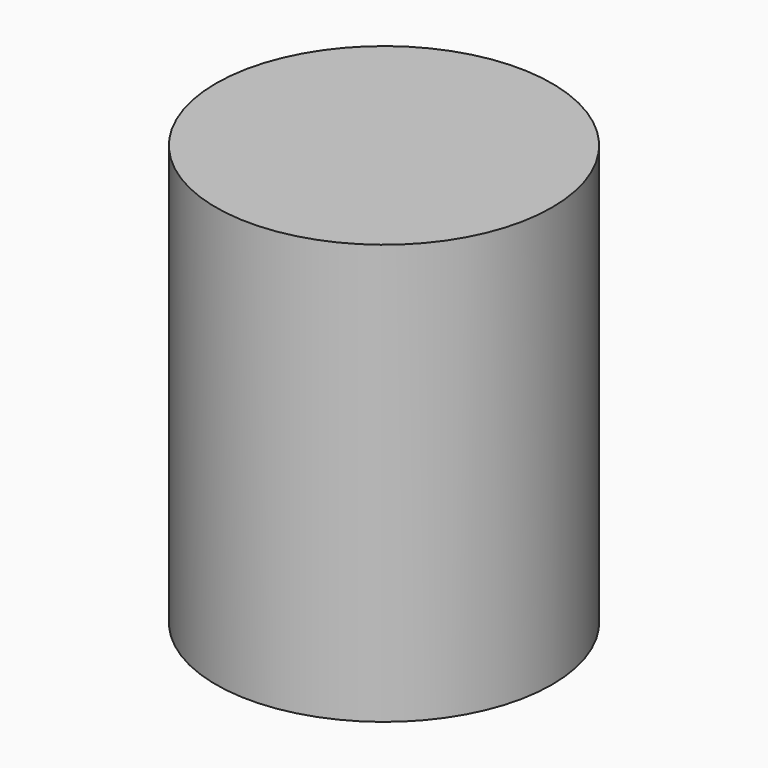
from build123d import *

# Parameters (mm, degrees)
F0_R     = 80
F1_DEPTH = 200


with BuildPart() as f1:
    # F0 (on Top) → F1 (new body)
    with BuildSketch(Plane.XY):
        Circle(F0_R)
    extrude(amount=F1_DEPTH)


with BuildPart() as f2_1:
    # F2: copy of F1
    add(f1.part)


solid = f1.part
